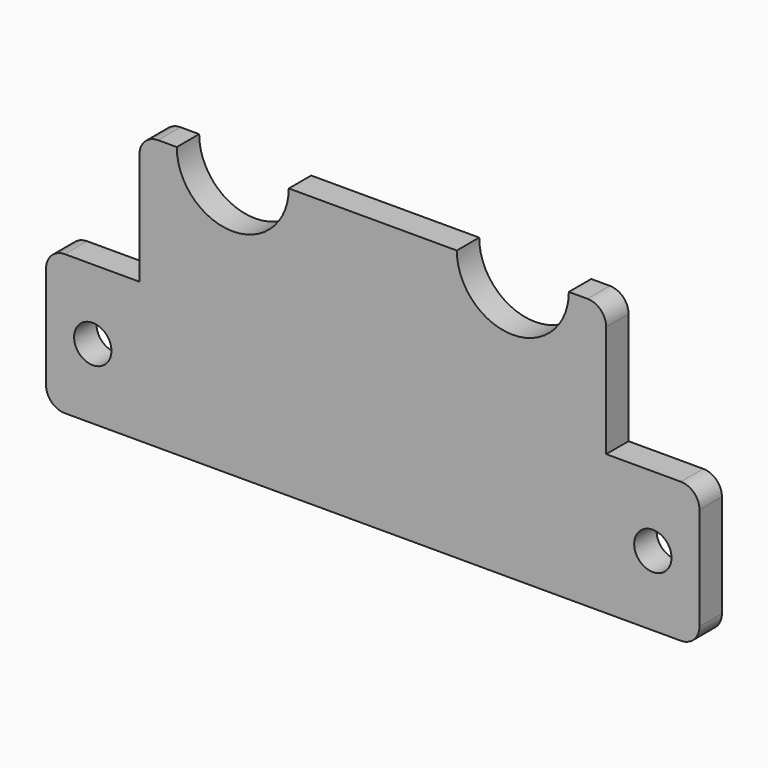
from build123d import *

# Parameters (mm, degrees)
F0_R     = 2
F1_DEPTH = 3
F2_R     = 2


with BuildPart() as f1:
    # F0 (on Front) → F1 (new body)
    with BuildSketch(Plane.XZ):
        with BuildLine():
            Line((-35, 15), (-35, 0))
            Line((-35, 0), (35, 0))
            Line((35, 0), (35, 15))
            Line((35, 15), (25, 15))
            Line((25, 15), (25, 29))
            Line((25, 29), (21, 29))
            ThreePointArc((21, 29), (15, 23), (9, 29))
            Line((9, 29), (-9, 29))
            ThreePointArc((-9, 29), (-15, 23), (-21, 29))
            Line((-21, 29), (-25, 29))
            Line((-25, 29), (-25, 15))
            Line((-25, 15), (-35, 15))
        make_face()
        with Locations((-30, 7.5)):
            Circle(F0_R, mode=Mode.SUBTRACT)
        with Locations((30, 7.5)):
            Circle(F0_R, mode=Mode.SUBTRACT)
    extrude(amount=F1_DEPTH)

    # F2
    f2_edges = [f1.edges().sort_by_distance(p)[0] for p in [
        (35, -1.5, 15),
        (25, -1.5, 29),
        (35, -1.5, 0),
        (-25, -1.5, 29),
        (-35, -1.5, 15),
        (-35, -1.5, 0),
    ]]
    fillet(f2_edges, radius=F2_R)


solid = f1.part
